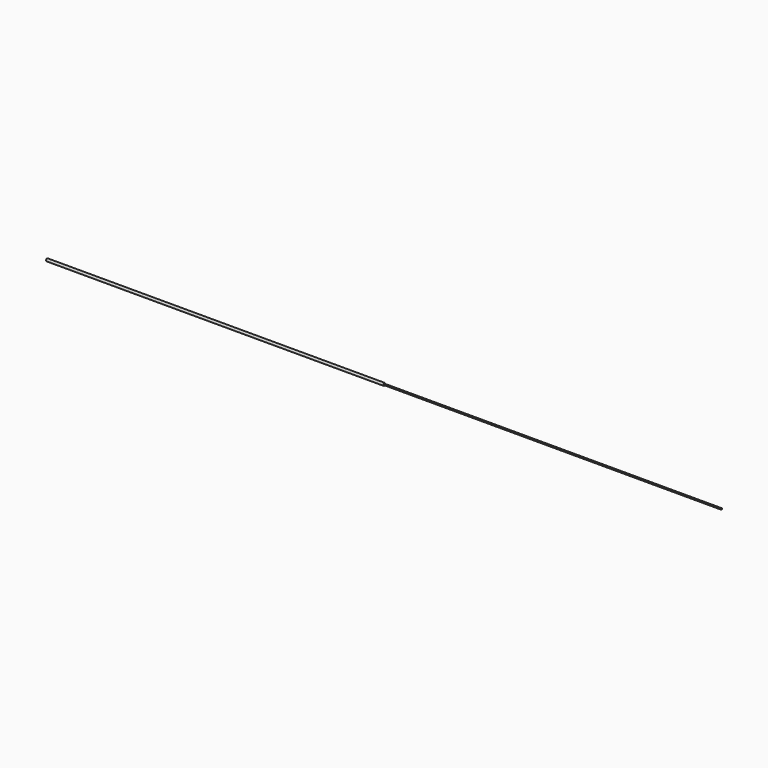
from build123d import *

# Parameters (mm, degrees)
F0_W = 50.8
F0_H = 0.09525


with BuildPart() as f1:
    # F0 (on Front) → F1 (revolve)
    with BuildSketch(Plane.XZ):
        Polygon((0, 0.1905), (-50.8, 0.1905), (-50.8, 0), (0, 0), (0, 0.09525), align=None)
        with Locations((25.4, 0.047625)):
            Rectangle(F0_W, F0_H)
    revolve(axis=Axis((-25.4, 0, 0), (1, 0, 0)))


solid = f1.part
